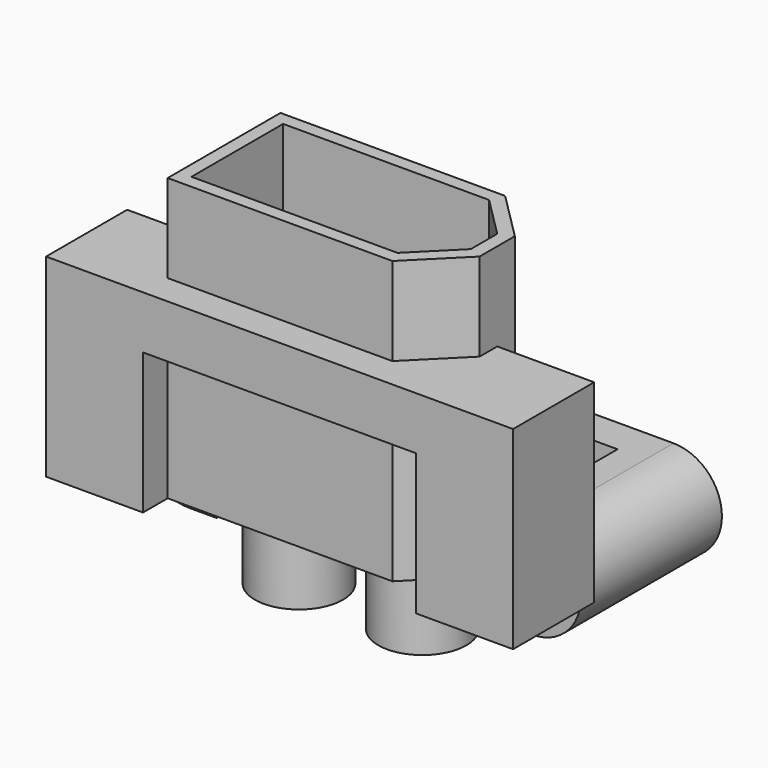
from build123d import *

# Parameters (mm, degrees)
F0_W      = 15.5
F0_H      = 8
F1_DEPTH  = 16
F2_SIZE   = 2.75
F4_DEPTH  = 9.25
F5_R      = 2.5
F6_DEPTH  = 4.5
F7_W      = 10
F7_H      = 5.75
F8_DEPTH  = 0.5
F10_DEPTH = 5.75
F11_R     = 1
F12_DEPTH = 4
F14_DEPTH = 10
F16_DEPTH = 12.5
F17_R     = 1
F18_DEPTH = 8


with BuildPart() as f1:
    # F0 (on Top) → F1 (new body)
    with BuildSketch(Plane.XY):
        Rectangle(F0_W, F0_H)
    extrude(amount=F1_DEPTH)

    # F2
    f2_edges = [f1.edges().sort_by_distance(p)[0] for p in [
        (7.75, -4, 8),
        (7.75, 4, 8),
    ]]
    chamfer(f2_edges, length=F2_SIZE)

    # F3 (on face) → F4 (cut)
    with BuildSketch(Plane.XY.offset(16)):
        Polygon((4.6893398282, 3.25), (-7, 3.25), (-7, -3.25), (4.6893398282, -3.25), (7, -0.9393398282), (7, 0.9393398282), align=None)
    extrude(amount=-F4_DEPTH, mode=Mode.SUBTRACT)

    # F5 (on face) → F6 (join)
    with BuildSketch(Plane(origin=(0, 0, 0), x_dir=(1, 0, 0), z_dir=(0, 0, -1))):
        with Locations((-3.5, 0)):
            Circle(F5_R)
        with Locations((3.5, 0)):
            Circle(F5_R)
    extrude(amount=F6_DEPTH)

    # F7 (on face) → F8 (cut)
    with BuildSketch(Plane(origin=(0, 4, 0), x_dir=(-1, 0, 0), z_dir=(0, 1, 0))):
        with Locations((1.25, 3.875)):
            Rectangle(F7_W, F7_H)
    extrude(amount=-F8_DEPTH, mode=Mode.SUBTRACT)


with BuildPart() as f10:
    # F9 (on Front) → F10 (new body)
    with BuildSketch(Plane.XZ):
        Polygon((-7.75, 0), (-7.75, 8), (7.75, 8), (7.75, 0), (13.25, 0), (13.25, 11), (-13.25, 11), (-13.25, 0), align=None)
    extrude(amount=F10_DEPTH)

    # F11 (on face) → F12 (cut)
    with BuildSketch(Plane(origin=(0, 0, 0), x_dir=(1, 0, 0), z_dir=(0, 0, -1))):
        with Locations((-10.5, 2.875)):
            Circle(F11_R)
        with Locations((10.5, 2.875)):
            Circle(F11_R)
    extrude(amount=-F12_DEPTH, mode=Mode.SUBTRACT)


with BuildPart() as f14:
    # F13 (on Front) → F14 (new body)
    with BuildSketch(Plane.XZ):
        with BuildLine():
            Line((-9.75, -2.75), (9.75, -2.75))
            ThreePointArc((9.75, -2.75), (12.5, 0), (9.75, 2.75))
            Line((9.75, 2.75), (-9.75, 2.75))
            ThreePointArc((-9.75, 2.75), (-12.5, 0), (-9.75, -2.75))
        make_face()
    extrude(amount=-F14_DEPTH)

    # F15 (on Top) → F16 (cut, symmetric)
    with BuildSketch(Plane.XY):
        Polygon((-8.175, 8), (-8.175, 0), (8.175, 0), (8.175, 8), (3.975, 8), (3.975, 7.5), (-5.775, 7.5), (-5.775, 8), align=None)
    extrude(amount=F16_DEPTH, both=True, mode=Mode.SUBTRACT)

    # F17 (on face) → F18 (cut)
    with BuildSketch(Plane.XZ):
        with Locations((-9.75, 0)):
            Circle(F17_R)
        with Locations((9.75, 0)):
            Circle(F17_R)
    extrude(amount=-F18_DEPTH, mode=Mode.SUBTRACT)


solid = Compound([f1.part, f10.part, f14.part])
